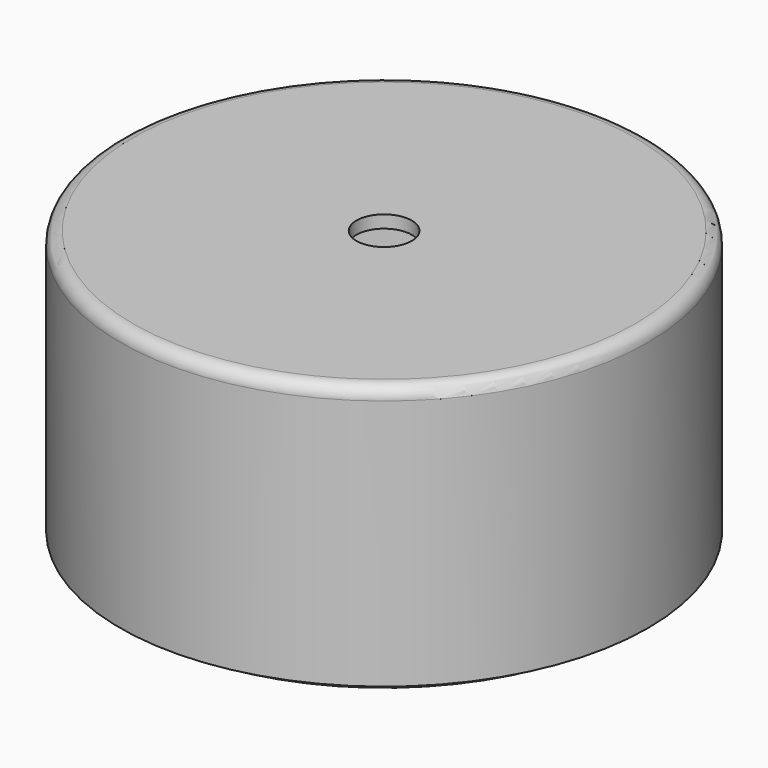
from build123d import *

# Parameters (mm, degrees)
CYLINDER_R        = 20
CYLINDER_DEPTH    = 20
THICKNESS_T       = 1
SKETCH_R          = 2.2
POCKET_DEPTH      = 21.001
CYLINDER001_R     = 19
CYLINDER001_DEPTH = 5
THICKNESS001_T    = 1


with BuildPart() as body:
    # Cylinder → Cylinder (join)
    with BuildSketch(Plane.XY):
        Circle(CYLINDER_R)
    extrude(amount=CYLINDER_DEPTH)

    # Thickness
    thickness_openings = [body.faces().sort_by_distance(p)[0] for p in [
        (0, 0, 0),
    ]]
    offset(amount=THICKNESS_T, openings=thickness_openings)

    # Sketch (on Face6 of Thickness) → Pocket (cut, through all)
    with BuildSketch(Plane.XY.offset(21)):
        Circle(SKETCH_R)
    extrude(amount=-POCKET_DEPTH, mode=Mode.SUBTRACT)


with BuildPart() as body001:
    # Cylinder001 → Cylinder001 (join)
    with BuildSketch(Plane.XY):
        Circle(CYLINDER001_R)
    extrude(amount=CYLINDER001_DEPTH)

    # Thickness001
    thickness001_openings = [body001.faces().sort_by_distance(p)[0] for p in [
        (0, 0, 5),
    ]]
    offset(amount=THICKNESS001_T, openings=thickness001_openings)


solid = Compound([body.part, body001.part])
